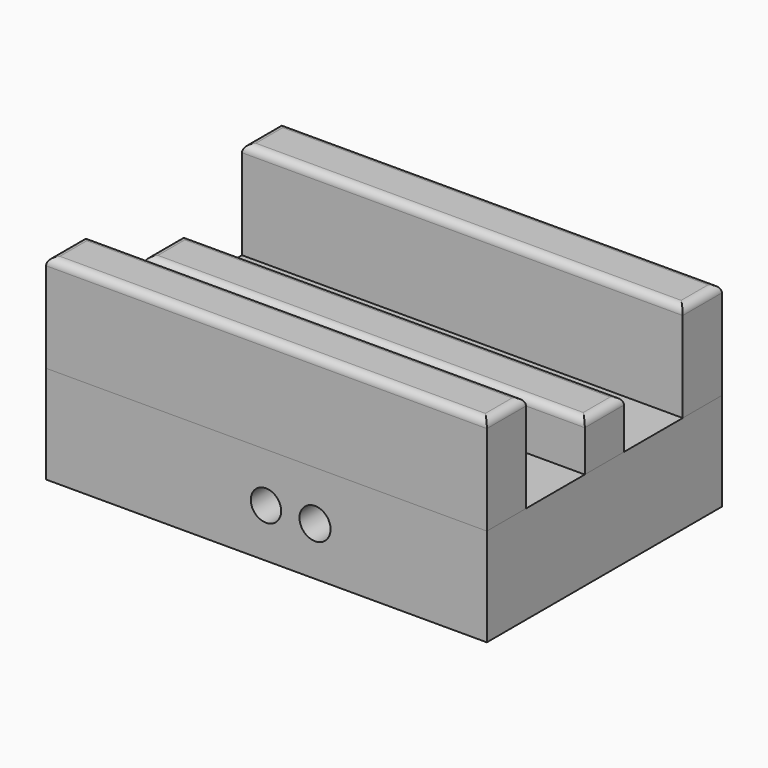
from build123d import *

# Parameters (mm, degrees)
BOX001_W     = 57.15
BOX001_H     = 6.35
BOX001_DEPTH = 12.7
FILLET_R     = 1
BOX002_W     = 57.15
BOX002_H     = 6.35
BOX002_DEPTH = 12.7
FILLET001_R  = 1
BOX003_W     = 57.15
BOX003_H     = 6.35
BOX003_DEPTH = 6.35
FILLET002_R  = 1
SKETCH002_R  = 1.968415
PAD001_DEPTH = 26.8986
SKETCH003_R  = 1.513596
PAD002_DEPTH = 6.35
SKETCH001_R  = 1.519201
PAD_DEPTH    = 6.35
SKETCH004_R  = 1.520745
PAD003_DEPTH = 6.35
SKETCH005_R  = 2.01665
PAD004_DEPTH = 38.1
BOX_W        = 57.15
BOX_H        = 38.1
BOX_DEPTH    = 12.7


with BuildPart() as fillet_body:
    # Box001 → Box001 (new body)
    with BuildSketch(Plane.XY.offset(12.7)):
        with Locations((28.575, 3.175)):
            Rectangle(BOX001_W, BOX001_H)
    extrude(amount=BOX001_DEPTH)

    # Fillet
    fillet_edges = [fillet_body.edges().sort_by_distance(p)[0] for p in [
        (0, 3.175, 25.4),
        (57.15, 3.175, 25.4),
        (28.575, 0, 25.4),
        (28.575, 6.35, 25.4),
    ]]
    fillet(fillet_edges, radius=FILLET_R)


with BuildPart() as fillet001:
    # Box002 → Box002 (new body)
    with BuildSketch(Plane(origin=(0, 31.75, 12.7), x_dir=(1, 0, 0), z_dir=(0, 0, 1))):
        with Locations((28.575, 3.175)):
            Rectangle(BOX002_W, BOX002_H)
    extrude(amount=BOX002_DEPTH)

    # Fillet001
    fillet001_edges = [fillet001.edges().sort_by_distance(p)[0] for p in [
        (0, 34.925, 25.4),
        (57.15, 34.925, 25.4),
        (28.575, 31.75, 25.4),
        (28.575, 38.1, 25.4),
    ]]
    fillet(fillet001_edges, radius=FILLET001_R)


with BuildPart() as fillet002:
    # Box003 → Box003 (new body)
    with BuildSketch(Plane(origin=(0, 15.875, 12.7), x_dir=(1, 0, 0), z_dir=(0, 0, 1))):
        with Locations((28.575, 3.175)):
            Rectangle(BOX003_W, BOX003_H)
    extrude(amount=BOX003_DEPTH)

    # Fillet002
    fillet002_edges = [fillet002.edges().sort_by_distance(p)[0] for p in [
        (0, 19.05, 19.05),
        (57.15, 19.05, 19.05),
        (28.575, 15.875, 19.05),
        (28.575, 22.225, 19.05),
    ]]
    fillet(fillet002_edges, radius=FILLET002_R)


with BuildPart() as pad001:
    # Sketch002 → Pad001 (new body)
    with BuildSketch(Plane.XZ):
        with Locations((28.509926, 6.30875)):
            Circle(SKETCH002_R)
    extrude(amount=-PAD001_DEPTH)


with BuildPart() as pad002:
    # Sketch003 → Pad002 (new body)
    with BuildSketch(Plane.XY.offset(6.35)):
        with Locations((28.518757, 12.614189)):
            Circle(SKETCH003_R)
    extrude(amount=PAD002_DEPTH)


with BuildPart() as pad:
    # Sketch001 → Pad (new body)
    with BuildSketch(Plane.XY):
        with Locations((28.524174, 19.036169)):
            Circle(SKETCH001_R)
    extrude(amount=PAD_DEPTH)


with BuildPart() as pad003:
    # Sketch004 → Pad003 (new body)
    with BuildSketch(Plane.XY.offset(6.35)):
        with Locations((28.523685, 25.366407)):
            Circle(SKETCH004_R)
    extrude(amount=PAD003_DEPTH)


with BuildPart() as fusion002:
    # Fusion002 base: copy of Pad003
    add(pad003.part)

    # Fusion002: union Pad001, Pad002, Pad
    add(pad001.part)
    add(pad002.part)
    add(pad.part)


with BuildPart() as pad004:
    # Sketch005 → Pad004 (new body)
    with BuildSketch(Plane.XZ):
        with Locations((34.873043, 6.31109)):
            Circle(SKETCH005_R)
    extrude(amount=-PAD004_DEPTH)


with BuildPart() as fusion:
    # Fusion base: copy of Pad002
    add(pad002.part)

    # Fusion: union Pad001, Pad003
    add(pad001.part)
    add(pad003.part)


with BuildPart() as fusion001:
    # Fusion001 base: copy of Pad
    add(pad.part)

    # Fusion001: union Fusion
    add(fusion.part)


with BuildPart() as cut003:
    # Box → Box (new body)
    with BuildSketch(Plane.XY):
        with Locations((28.575, 19.05)):
            Rectangle(BOX_W, BOX_H)
    extrude(amount=BOX_DEPTH)

    # Cut: cut Pad
    add(pad.part, mode=Mode.SUBTRACT)

    # Cut001: cut Fusion001
    add(fusion001.part, mode=Mode.SUBTRACT)

    # Cut002: cut Pad004
    add(pad004.part, mode=Mode.SUBTRACT)

    # Cut003: cut Fusion002
    add(fusion002.part, mode=Mode.SUBTRACT)


solid = Compound([fillet_body.part, fillet001.part, fillet002.part, cut003.part])
